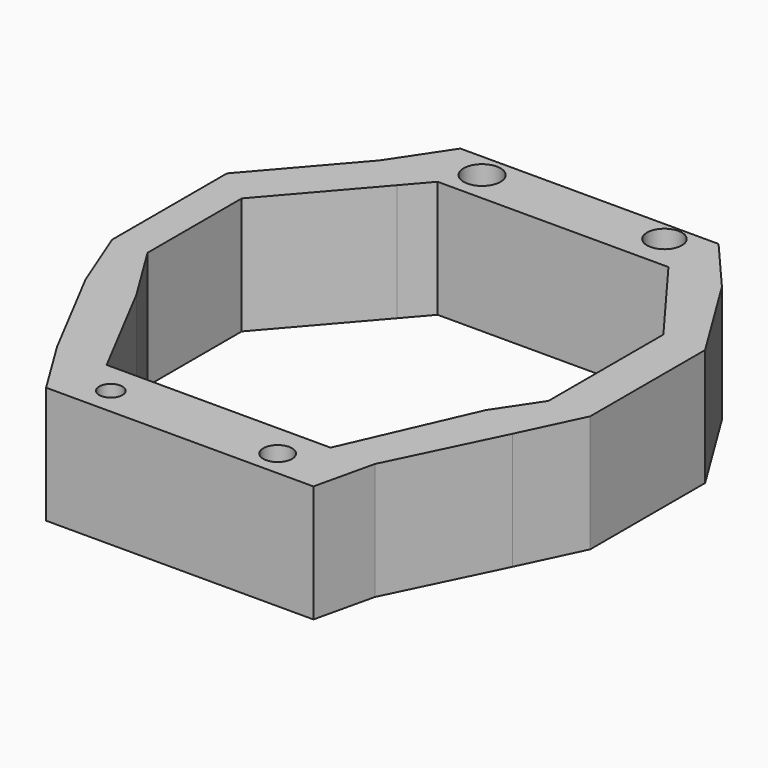
from build123d import *

# Parameters (mm, degrees)
F0_R     = 3.9401235554
F0_R_2   = 3.7179654295
F0_R_3   = 2.4821275962
F0_R_4   = 3.0762994678
F1_DEPTH = 25


with BuildPart() as f1:
    # F0 (on Top) → F1 (new body)
    with BuildSketch(Plane.XY):
        Polygon((25.9239133447, 61.9565248489), (-29.1847828776, 61.9565248489), (-37.0108708739, 50.2173937857), (-24.6630428207, 50.2173937857), (24.6195662767, 50.2173937857), (36.0326059163, 50.2173937857), align=None)
        with Locations((-20.3804355115, 56.7391328514)):
            Circle(F0_R, mode=Mode.SUBTRACT)
        with Locations((17.7717413753, 57.7173940837)):
            Circle(F0_R_2, mode=Mode.SUBTRACT)
        Polygon((-29.1847828776, 45.0000013742), (-37.0108708739, 50.2173937857), (-53.9673939347, 30.6521747261), (-46.3995258629, 25.1368362456), align=None)
        Polygon((-24.6630428207, 50.2173937857), (-37.0108708739, 50.2173937857), (-29.1847828776, 45.0000013742), align=None)
        Polygon((28.6701515291, 44.7763084559), (36.0326059163, 50.2173937857), (24.6195662767, 50.2173937857), align=None)
        Polygon((48.0978302658, 30.6521747261), (36.0326059163, 50.2173937857), (28.6701515291, 44.7763084559), (39.184783137, 30.6521747261), (39.184783137, 0), (33.0978259444, -9.1304350644), (21.3586967438, -35.8695648611), (30.815217644, -35.8695648611), (41.9021770358, -13.0434790626), (48.0978302658, 0), align=None)
        Polygon((-46.3995258629, 25.1368362456), (-53.9673939347, 30.6521747261), (-53.9673939347, 0), (-48.4239161015, -14.0217393637), (-37.0108708739, -35.8695648611), (-26.4319663345, -35.8695648611), (-38.3560431547, -13.0434790626), (-46.3995258629, 0), align=None)
        Polygon((-26.4319663345, -35.8695648611), (-37.0108708739, -35.8695648611), (-29.1847828776, -48.5869571567), (27.8804339468, -48.5869571567), (30.815217644, -35.8695648611), (21.3586967438, -35.8695648611), align=None)
        with Locations((-20.0543478131, -42.7173897624)):
            Circle(F0_R_3, mode=Mode.SUBTRACT)
        with Locations((15.8152170479, -43.0434793234)):
            Circle(F0_R_4, mode=Mode.SUBTRACT)
    extrude(amount=F1_DEPTH)


solid = f1.part
